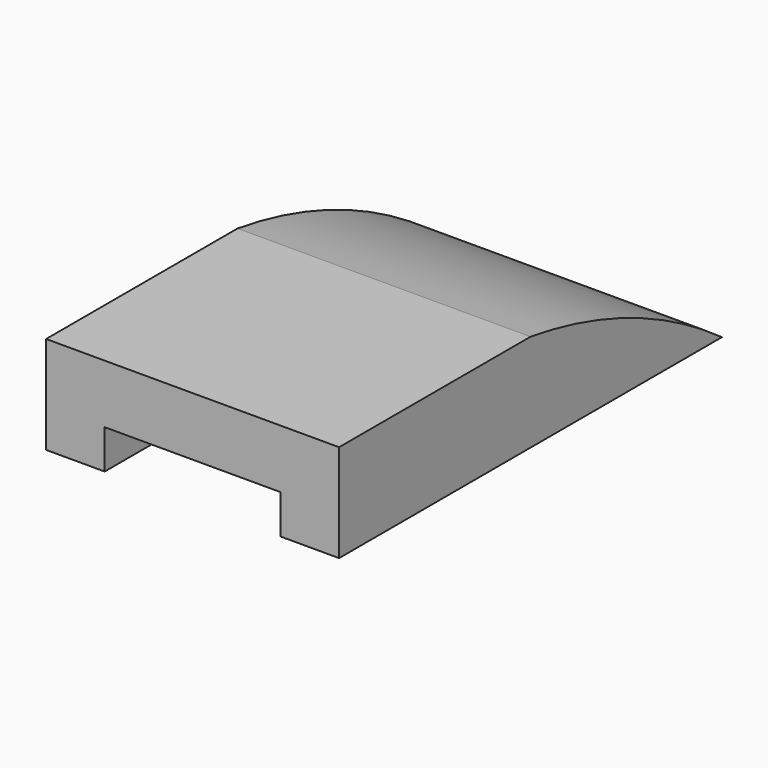
from build123d import *

# Parameters (mm, degrees)
F0_W     = 31.115
F0_H     = 12.7
F1_DEPTH = 38.1
F2_W     = 22.86
F2_H     = 31.115
F3_DEPTH = 5.08


with BuildPart() as f1:
    # F0 (on Right) → F1 (new body)
    with BuildSketch(Plane.YZ):
        with Locations((-31.0113760504, 43.1936303318)):
            Rectangle(F0_W, F0_H)
        with BuildLine():
            Line((-15.4538760504, 49.5436303318), (-15.4538760504, 36.8436303318))
            Line((-15.4538760504, 36.8436303318), (15.6611239496, 36.8436303318))
            ThreePointArc((15.6611239496, 36.8436303318), (0.8675823776, 45.0653284805), (-15.4538760504, 49.5436303318))
        make_face()
    extrude(amount=F1_DEPTH)

    # F2 (on face) → F3 (cut)
    with BuildSketch(Plane(origin=(0, 0, 36.8436303318), x_dir=(1, 0, 0), z_dir=(0, 0, -1))):
        with Locations((19.05, 31.0113760504)):
            Rectangle(F2_W, F2_H)
    extrude(amount=-F3_DEPTH, mode=Mode.SUBTRACT)


solid = f1.part
